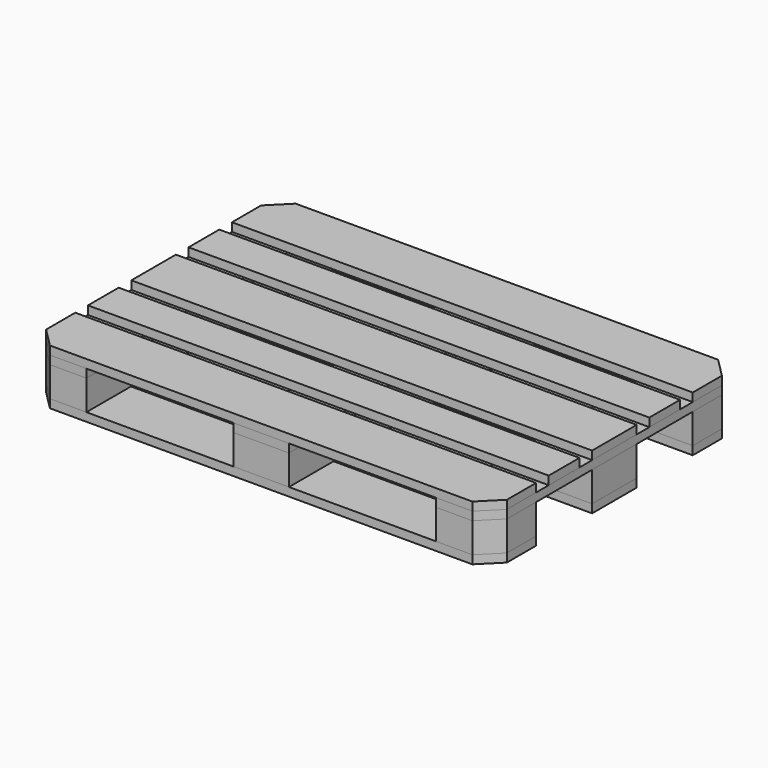
from build123d import *

# Parameters (mm, degrees)
F0_W      = 1200
F0_H      = 145
F0_H_2    = 100
F1_DEPTH  = 22
F2_W      = 145
F2_H      = 655
F2_H_2    = 145
F3_DEPTH  = 22
F4_W      = 145
F4_H      = 145
F5_DEPTH  = 78
F6_W      = 145
F6_H      = 145
F6_W_2    = 1055
F6_W_3    = 1200
F7_DEPTH  = 22
F8_SIZE   = 50
F8_2_SIZE = 50
F8_3_SIZE = 50
F8_4_SIZE = 50


with BuildPart() as f1:
    # F0 (on Top) → F1 (new body)
    with BuildSketch(Plane.XY):
        with Locations((0, 327.5)):
            Rectangle(F0_W, F0_H)
        with Locations((0, 163.75)):
            Rectangle(F0_W, F0_H_2)
        Rectangle(F0_W, F0_H)
        with Locations((0, -163.75)):
            Rectangle(F0_W, F0_H_2)
        with Locations((0, -327.5)):
            Rectangle(F0_W, F0_H)
    extrude(amount=-F1_DEPTH)

    # F8
    f8_edges = [f1.edges().sort_by_distance(p)[0] for p in [
        (-600, -400, -11),
        (600, -400, -11),
        (600, 400, -11),
        (-600, 400, -11),
    ]]
    chamfer(f8_edges, length=F8_SIZE)


with BuildPart() as f3:
    # F2 (on face) → F3 (new body)
    with BuildSketch(Plane(origin=(0, 0, -22), x_dir=(1, 0, 0), z_dir=(0, 0, -1))):
        with Locations((-527.5, -72.5)):
            Rectangle(F2_W, F2_H)
        with Locations((-527.5, 327.5)):
            Rectangle(F2_W, F2_H_2)
        with Locations((0, 327.5)):
            Rectangle(F2_W, F2_H_2)
        with Locations((0, -72.5)):
            Rectangle(F2_W, F2_H)
        with Locations((527.5, 327.5)):
            Rectangle(F2_W, F2_H_2)
        with Locations((527.5, -72.5)):
            Rectangle(F2_W, F2_H)
    extrude(amount=F3_DEPTH)

    # F8#2
    f8_2_edges = [f3.edges().sort_by_distance(p)[0] for p in [
        (-600, -400, -33),
        (600, -400, -33),
        (600, 400, -33),
        (-600, 400, -33),
    ]]
    chamfer(f8_2_edges, length=F8_2_SIZE)


with BuildPart() as f5:
    # F4 (on face) → F5 (new body)
    with BuildSketch(Plane(origin=(0, 0, -44), x_dir=(1, 0, 0), z_dir=(0, 0, -1))):
        with Locations((-527.5, 327.5)):
            Rectangle(F4_W, F4_H)
        with Locations((-527.5, 0)):
            Rectangle(F4_W, F4_H)
        with Locations((-527.5, -327.5)):
            Rectangle(F4_W, F4_H)
        with Locations((0, -327.5)):
            Rectangle(F4_W, F4_H)
        Rectangle(F4_W, F4_H)
        with Locations((0, 327.5)):
            Rectangle(F4_W, F4_H)
        with Locations((527.5, 327.5)):
            Rectangle(F4_W, F4_H)
        with Locations((527.5, 0)):
            Rectangle(F4_W, F4_H)
        with Locations((527.5, -327.5)):
            Rectangle(F4_W, F4_H)
    extrude(amount=F5_DEPTH)

    # F8#3
    f8_3_edges = [f5.edges().sort_by_distance(p)[0] for p in [
        (-600, -400, -83),
        (600, -400, -83),
        (600, 400, -83),
        (-600, 400, -83),
    ]]
    chamfer(f8_3_edges, length=F8_3_SIZE)


with BuildPart() as f7:
    # F6 (on face) → F7 (new body)
    with BuildSketch(Plane(origin=(0, 0, -122), x_dir=(1, 0, 0), z_dir=(0, 0, -1))):
        with Locations((-527.5, 327.5)):
            Rectangle(F6_W, F6_H)
        with Locations((72.5, 327.5)):
            Rectangle(F6_W_2, F6_H)
        Rectangle(F6_W_3, F6_H)
        with Locations((0, -327.5)):
            Rectangle(F6_W_3, F6_H)
    extrude(amount=F7_DEPTH)

    # F8#4
    f8_4_edges = [f7.edges().sort_by_distance(p)[0] for p in [
        (-600, -400, -133),
        (600, -400, -133),
        (600, 400, -133),
        (-600, 400, -133),
    ]]
    chamfer(f8_4_edges, length=F8_4_SIZE)


solid = Compound([f1.part, f3.part, f5.part, f7.part])
